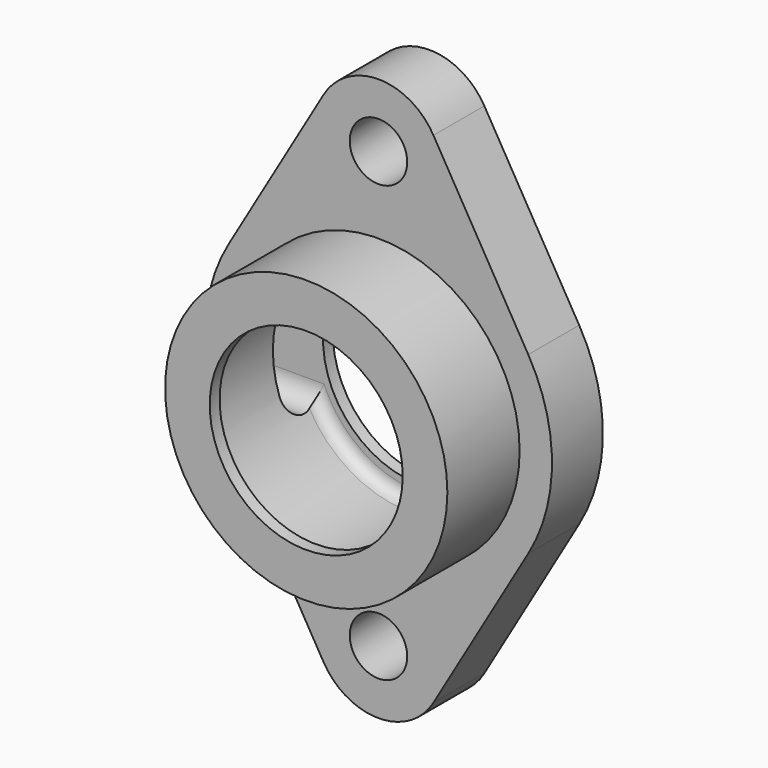
from build123d import *

# Parameters (mm, degrees)
F0_R     = 7.112
F1_DEPTH = 15.748
F2_R     = 34.925
F3_DEPTH = 22.352
F5_R     = 23.876
F6_DEPTH = 38.101
F9_DEPTH = 42.927


with BuildPart() as f1:
    # F0 (on Front) → F1 (new body)
    with BuildSketch(Plane.XZ):
        with BuildLine():
            Line((13.595006, -61.796284), (37.057365, -21.665484))
            ThreePointArc((37.057365, -21.665484), (42.926, 0), (37.057365, 21.665484))
            Line((37.057365, 21.665484), (13.595006, 61.796284))
            ThreePointArc((13.595006, 61.796284), (-5e-06, 69.596), (-13.595015, 61.796282))
            Line((-13.595015, 61.796282), (-37.057365, 21.665484))
            ThreePointArc((-37.057365, 21.665484), (-42.926, 0), (-37.057365, -21.665484))
            Line((-37.057365, -21.665484), (-13.595014, -61.796282))
            ThreePointArc((-13.595014, -61.796282), (-5e-06, -69.596), (13.595006, -61.796284))
        make_face()
        with Locations((-4e-06, -53.848)):
            Circle(F0_R, mode=Mode.SUBTRACT)
        with Locations((-4e-06, 53.848)):
            Circle(F0_R, mode=Mode.SUBTRACT)
    extrude(amount=-F1_DEPTH)

    # F2 (on face) → F3 (join)
    with BuildSketch(Plane.XZ):
        Circle(F2_R)
    extrude(amount=F3_DEPTH)

    # F5 (on face) → F6 (cut, through all)
    with BuildSketch(Plane.XZ.offset(22.352)):
        Circle(F5_R)
    extrude(amount=-F6_DEPTH, mode=Mode.SUBTRACT)

    # F4 (on Top) → F7 (revolve, cut)
    with BuildSketch(Plane.XY):
        with BuildLine():
            Line((0, 12.7), (-25.527, 12.7))
            ThreePointArc((-25.527, 12.7), (-27.682261, 11.807261), (-28.575, 9.652))
            Line((-28.575, 9.652), (-28.575, -16.256))
            ThreePointArc((-28.575, -16.256), (-27.682261, -18.411261), (-25.527, -19.304))
            Line((-25.527, -19.304), (0, -19.304))
            Line((0, -19.304), (0, 12.7))
        make_face()
    revolve(axis=Axis((0, -2.106836, 0), (0, -1, 0)), mode=Mode.SUBTRACT)

    # F8 (on Right) → F9 (cut, through all)
    with BuildSketch(Plane.YZ):
        with BuildLine():
            Line((12.7, -9.652), (12.7, 9.652))
            ThreePointArc((12.7, 9.652), (7.874, 14.478), (3.048, 9.652))
            Line((3.048, 9.652), (3.048, -9.652))
            ThreePointArc((3.048, -9.652), (7.874, -14.478), (12.7, -9.652))
        make_face()
    extrude(amount=-F9_DEPTH, mode=Mode.SUBTRACT)


solid = f1.part
